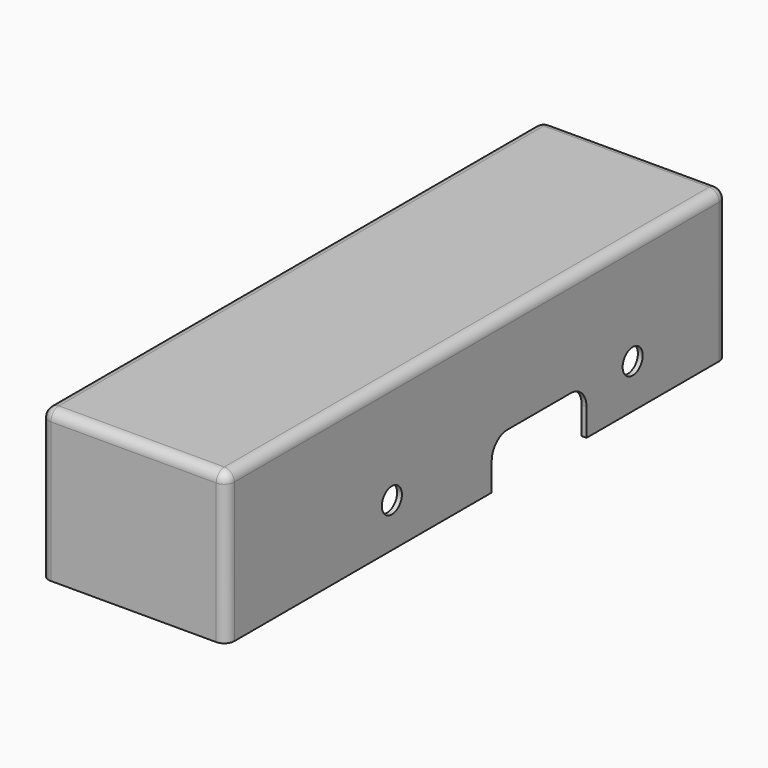
from build123d import *

# Parameters (mm, degrees)
F0_W     = 46.9392
F0_H     = 158.48838
F1_DEPTH = 38.00094
F2_T     = -1.2192
F3_R     = 2.54
F5_DEPTH = 46.9402
F6_R     = 3.175
F7_DEPTH = 46.9402
F8_W     = 44.5008
F8_H     = 35.46094
F9_DEPTH = 1.2192


with BuildPart() as f1:
    # F0 (on Top) → F1 (new body)
    with BuildSketch(Plane.XY):
        Rectangle(F0_W, F0_H)
    extrude(amount=-F1_DEPTH)

    # F2
    f2_openings = [f1.faces().sort_by_distance(p)[0] for p in [
        (0, 0, -38.00094),
    ]]
    offset(amount=F2_T, openings=f2_openings)

    # F3
    f3_edges = [f1.edges().sort_by_distance(p)[0] for p in [
        (23.4696, 0, 0),
        (-23.4696, 0, 0),
        (0, -79.24419, 0),
        (23.4696, -79.24419, -19.00047),
        (-23.4696, -79.24419, -19.00047),
        (-23.4696, 79.24419, -19.00047),
        (23.4696, 79.24419, -19.00047),
        (0, 79.24419, 0),
    ]]
    fillet(f3_edges, radius=F3_R)

    # F4 (on face) → F5 (cut, through all)
    with BuildSketch(Plane.YZ.offset(23.4696)):
        with BuildLine():
            Line((4.74345, -38.00094), (34.74339, -38.00094))
            Line((34.74339, -38.00094), (34.74339, -31.00197))
            ThreePointArc((34.74339, -31.00197), (33.278927, -27.466443), (29.7434, -26.00198))
            Line((29.7434, -26.00198), (9.74344, -26.00198))
            ThreePointArc((9.74344, -26.00198), (6.207913, -27.466443), (4.74345, -31.00197))
            Line((4.74345, -31.00197), (4.74345, -38.00094))
        make_face()
    extrude(amount=-F5_DEPTH, mode=Mode.SUBTRACT)

    # F6 (on face) → F7 (cut, through all)
    with BuildSketch(Plane.YZ.offset(23.4696)):
        with Locations((-26.84399, -26.86304)):
            Circle(F6_R)
        with Locations((49.35601, -26.86304)):
            Circle(F6_R)
    extrude(amount=-F7_DEPTH, mode=Mode.SUBTRACT)

    # F8 (on face) → F9 (cut, through all)
    with BuildSketch(Plane(origin=(0, 79.24419, 0), x_dir=(-1, 0, 0), z_dir=(0, 1, 0))):
        with Locations((0, -20.27047)):
            Rectangle(F8_W, F8_H)
    extrude(amount=-F9_DEPTH, mode=Mode.SUBTRACT)


solid = f1.part
